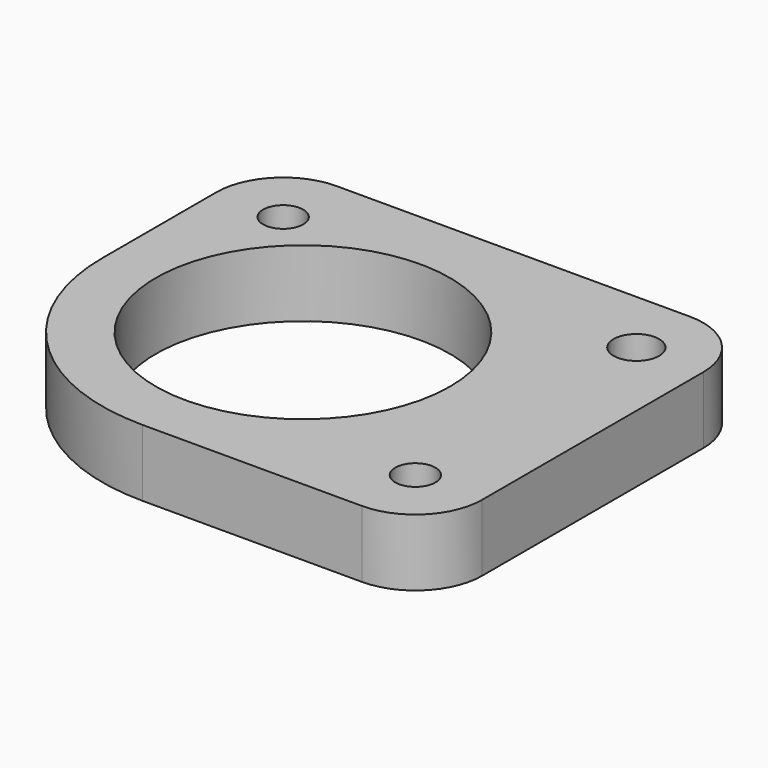
from build123d import *

# Parameters (mm, degrees)
F0_R     = 11
F0_R_2   = 1.5
F0_R_3   = 1.70381
F1_DEPTH = 5


with BuildPart() as f1:
    # F0 (on Top) → F1 (new body)
    with BuildSketch(Plane.XY):
        with BuildLine():
            Line((0, -15), (16.407159, -15))
            ThreePointArc((16.407159, -15), (19.942693, -13.535534), (21.407159, -10))
            Line((21.407159, -10), (21.407159, 10.655158))
            ThreePointArc((21.407159, 10.655158), (19.942693, 14.190692), (16.407159, 15.655158))
            Line((16.407159, 15.655158), (-10, 15.655158))
            ThreePointArc((-10, 15.655158), (-13.535534, 14.190692), (-15, 10.655158))
            Line((-15, 10.655158), (-15, 0))
            ThreePointArc((-15, 0), (-10.606602, -10.606602), (0, -15))
        make_face()
        Circle(F0_R, mode=Mode.SUBTRACT)
        with Locations((16.407159, -10)):
            Circle(F0_R_2, mode=Mode.SUBTRACT)
        with Locations((-10, 10.655158)):
            Circle(F0_R_2, mode=Mode.SUBTRACT)
        with Locations((16.407159, 10.655158)):
            Circle(F0_R_3, mode=Mode.SUBTRACT)
    extrude(amount=F1_DEPTH)


solid = f1.part
